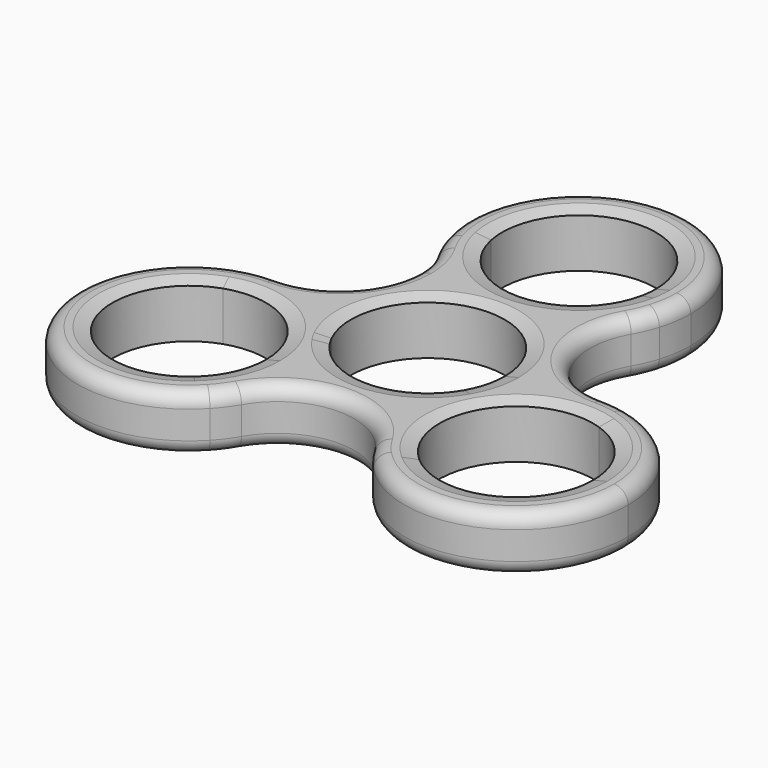
from build123d import *

# Parameters (mm, degrees)
F1_DEPTH   = 8
F2_R       = 2
F3_SIZE2   = 0.5
F3_SIZE    = 2
F4_SIZE2   = 2
F4_SIZE    = 0.5
F4_2_SIZE2 = 2
F4_2_SIZE  = 0.5
F4_3_SIZE2 = 2
F4_3_SIZE  = 0.5
F4_4_SIZE2 = 2
F4_4_SIZE  = 0.5


with BuildPart() as f1:
    # F0 (on Top) → F1 (new body)
    with BuildSketch(Plane.XY):
        with BuildLine():
            ThreePointArc((10.7700307631, 24.8015151753), (13.0865070646, 23.6611929217), (15.2836579454, 22.3051231209))
            ThreePointArc((15.2836579454, 22.3051231209), (15.8199008708, 24.6451264666), (16, 27.0390221279))
            ThreePointArc((16, 27.0390221279), (-2.3938956612, 42.8589229987), (-15.2836579454, 22.3051231209))
            ThreePointArc((-15.2836579454, 22.3051231209), (-13.0865070646, 23.6611929217), (-10.7700307631, 24.8015151753))
            ThreePointArc((-10.7700307631, 24.8015151753), (-1.1246469682, 37.9813787843), (11, 27.0390221279))
            ThreePointArc((11, 27.0390221279), (10.9423566564, 25.9143751596), (10.7700307631, 24.8015151753))
        make_face()
        with BuildLine():
            ThreePointArc((-13.8497502447, 19.0275042841), (0.013302609, 11.0390276578), (13.863052854, 19.0505450786))
            ThreePointArc((13.863052854, 19.0505450786), (14.6639270717, 20.6383000721), (15.2836579454, 22.3051231209))
            ThreePointArc((15.2836579454, 22.3051231209), (13.0865070646, 23.6611929217), (10.7700307631, 24.8015151753))
            ThreePointArc((10.7700307631, 24.8015151753), (0, 16.0390221279), (-10.7700307631, 24.8015151753))
            ThreePointArc((-10.7700307631, 24.8015151753), (-13.0865070646, 23.6611929217), (-15.2836579454, 22.3051231209))
            ThreePointArc((-15.2836579454, 22.3051231209), (-14.6586003596, 20.6261105038), (-13.8497502447, 19.0275042841))
        make_face()
        with BuildLine():
            ThreePointArc((26.9523801007, 2.1628510208), (27.0173529382, 1.0822928646), (27.0390221279, 0))
            ThreePointArc((27.0390221279, 0), (26.9972964631, -1.5015662873), (26.8722482479, -2.9984982464))
            ThreePointArc((26.8722482479, -2.9984982464), (32.3330446048, -7.0000511908), (34.4163501875, -13.4415231241))
            ThreePointArc((34.4163501875, -13.4415231241), (27.9427666707, -23.4670681876), (16.1415222201, -21.6923944747))
            ThreePointArc((16.1415222201, -21.6923944747), (13.9971892376, -23.1341179014), (11.7250292215, -24.364572793))
            ThreePointArc((11.7250292215, -24.364572793), (29.2874175753, -28.3254260977), (39.4163501875, -13.4415231241))
            ThreePointArc((39.4163501875, -13.4415231241), (35.9178796662, -3.4559454896), (26.9523801007, 2.1628510208))
        make_face()
        with BuildLine():
            ThreePointArc((26.8722482479, -2.9984982464), (26.9972964631, -1.5015662873), (27.0390221279, 0))
            ThreePointArc((27.0390221279, 0), (27.0173529382, 1.0822928646), (26.9523801007, 2.1628510208))
            ThreePointArc((26.9523801007, 2.1628510208), (25.1887865656, 2.4600009942), (23.4030475438, 2.5584713459))
            ThreePointArc((23.4030475438, 2.5584713459), (15.3932870587, 0.4015422168), (9.5399945116, -5.4761761037))
            ThreePointArc((9.5399945116, -5.4761761037), (7.4163723716, -13.4681668853), (9.5665997838, -21.4530406929))
            ThreePointArc((9.5665997838, -21.4530406929), (10.5631079323, -22.9701202679), (11.7250292215, -24.364572793))
            ThreePointArc((11.7250292215, -24.364572793), (13.9971892376, -23.1341179014), (16.1415222201, -21.6923944747))
            ThreePointArc((16.1415222201, -21.6923944747), (13.8763556667, -7.9653470365), (26.8722482479, -2.9984982464))
        make_face()
        with BuildLine():
            ThreePointArc((-7.3490054535, -13.4804046244), (-7.8057955833, -9.6845349044), (-9.1500838199, -6.1054046622))
            ThreePointArc((-9.1500838199, -6.1054046622), (-9.5263059345, -5.4999541128), (-9.8625243784, -4.8714076903))
            ThreePointArc((-9.8625243784, -4.8714076903), (-15.6653640378, 0.5538981582), (-23.3623080972, 2.5195898456))
            ThreePointArc((-23.3623080972, 2.5195898456), (-25.1712189323, 2.4154922687), (-26.9567613408, 2.1075425611))
            ThreePointArc((-26.9567613408, 2.1075425611), (-27.0348101605, -0.4772391579), (-26.8655813076, -3.0576557422))
            ThreePointArc((-26.8655813076, -3.0576557422), (-16.9334904467, -4.5450161495), (-12.3490054535, -13.4804046244))
            ThreePointArc((-12.3490054535, -13.4804046244), (-13.325334065, -18.0109688161), (-16.0810076162, -21.7372931084))
            ThreePointArc((-16.0810076162, -21.7372931084), (-13.9309295699, -23.1740785998), (-11.6534303278, -24.3988991396))
            ThreePointArc((-11.6534303278, -24.3988991396), (-10.485991798, -22.9958068597), (-9.4859523605, -21.4688812589))
            ThreePointArc((-9.4859523605, -21.4688812589), (-7.8924720535, -17.6150842076), (-7.3490054535, -13.4804046244))
        make_face()
        with BuildLine():
            ThreePointArc((-26.9567613408, 2.1075425611), (-37.2054504491, -21.4803378794), (-11.6534303278, -24.3988991396))
            ThreePointArc((-11.6534303278, -24.3988991396), (-13.9309295699, -23.1740785998), (-16.0810076162, -21.7372931084))
            ThreePointArc((-16.0810076162, -21.7372931084), (-32.875311388, -18.9803587372), (-26.8655813076, -3.0576557422))
            ThreePointArc((-26.8655813076, -3.0576557422), (-27.0348101605, -0.4772391579), (-26.9567613408, 2.1075425611))
        make_face()
        with BuildLine():
            ThreePointArc((-7.3490054535, -13.4804046244), (-7.8057955833, -9.6845349044), (-9.1500838199, -6.1054046622))
            ThreePointArc((-9.1500838199, -6.1054046622), (-9.5263059345, -5.4999541128), (-9.8625243784, -4.8714076903))
            ThreePointArc((-9.8625243784, -4.8714076903), (-15.6653640378, 0.5538981582), (-23.3623080972, 2.5195898456))
            ThreePointArc((-23.3623080972, 2.5195898456), (-25.1712189323, 2.4154922687), (-26.9567613408, 2.1075425611))
            ThreePointArc((-26.9567613408, 2.1075425611), (-27.0348101605, -0.4772391579), (-26.8655813076, -3.0576557422))
            ThreePointArc((-26.8655813076, -3.0576557422), (-16.9334904467, -4.5450161495), (-12.3490054535, -13.4804046244))
            ThreePointArc((-12.3490054535, -13.4804046244), (-13.325334065, -18.0109688161), (-16.0810076162, -21.7372931084))
            ThreePointArc((-16.0810076162, -21.7372931084), (-13.9309295699, -23.1740785998), (-11.6534303278, -24.3988991396))
            ThreePointArc((-11.6534303278, -24.3988991396), (-10.485991798, -22.9958068597), (-9.4859523605, -21.4688812589))
            ThreePointArc((-9.4859523605, -21.4688812589), (-7.8924720535, -17.6150842076), (-7.3490054535, -13.4804046244))
        make_face()
        with BuildLine():
            ThreePointArc((9.5665997838, -21.4530406929), (7.4163723716, -13.4681668853), (9.5399945116, -5.4761761037))
            ThreePointArc((9.5399945116, -5.4761761037), (0.370121239, -10.9937714306), (-9.1500838199, -6.1054046622))
            ThreePointArc((-9.1500838199, -6.1054046622), (-7.8057955833, -9.6845349044), (-7.3490054535, -13.4804046244))
            ThreePointArc((-7.3490054535, -13.4804046244), (-7.8924720535, -17.6150842076), (-9.4859523605, -21.4688812589))
            ThreePointArc((-9.4859523605, -21.4688812589), (0.0357509342, -15.9609630102), (9.5665997838, -21.4530406929))
        make_face()
        with BuildLine():
            ThreePointArc((9.5399945116, -5.4761761037), (15.3932870587, 0.4015422168), (23.4030475438, 2.5584713459))
            ThreePointArc((23.4030475438, 2.5584713459), (13.8721986641, 8.0505490014), (13.863052854, 19.0505450786))
            ThreePointArc((13.863052854, 19.0505450786), (0.013302609, 11.0390276578), (-13.8497502447, 19.0275042841))
            ThreePointArc((-13.8497502447, 19.0275042841), (-12.7474540279, 16.3710121791), (-12.3714536982, 13.5195860437))
            ThreePointArc((-12.3714536982, 13.5195860437), (-15.5900463187, 5.7446455812), (-23.3623080972, 2.5195898456))
            ThreePointArc((-23.3623080972, 2.5195898456), (-15.6653640378, 0.5538981582), (-9.8625243784, -4.8714076903))
            ThreePointArc((-9.8625243784, -4.8714076903), (-2.5012228846, 10.7118571724), (11, 0))
            ThreePointArc((11, 0), (10.6287332177, -2.8337307893), (9.5399945116, -5.4761761037))
        make_face()
        with BuildLine():
            ThreePointArc((9.5399945116, -5.4761761037), (15.3932870587, 0.4015422168), (23.4030475438, 2.5584713459))
            ThreePointArc((23.4030475438, 2.5584713459), (13.8721986641, 8.0505490014), (13.863052854, 19.0505450786))
            ThreePointArc((13.863052854, 19.0505450786), (0.013302609, 11.0390276578), (-13.8497502447, 19.0275042841))
            ThreePointArc((-13.8497502447, 19.0275042841), (-12.7474540279, 16.3710121791), (-12.3714536982, 13.5195860437))
            ThreePointArc((-12.3714536982, 13.5195860437), (-15.5900463187, 5.7446455812), (-23.3623080972, 2.5195898456))
            ThreePointArc((-23.3623080972, 2.5195898456), (-15.6653640378, 0.5538981582), (-9.8625243784, -4.8714076903))
            ThreePointArc((-9.8625243784, -4.8714076903), (-2.5012228846, 10.7118571724), (11, 0))
            ThreePointArc((11, 0), (10.6287332177, -2.8337307893), (9.5399945116, -5.4761761037))
        make_face()
    extrude(amount=F1_DEPTH)

    # F2
    f2_edges = [f1.edges().sort_by_distance(p)[0] for p in [
        (-13.840605, 8.027508, 0),
        (-37.198756, -21.491922, 8),
    ]]
    fillet(f2_edges, radius=F2_R)

    # F3
    f3_edges = [f1.edges().sort_by_distance(p)[0] for p in [
        (-9.539995, 5.476176, 0),
        (30.691178, -5.190652, 0),
        (-30.617003, -5.223516, 0),
        (-11, 27.039022, 0),
    ]]
    f3_side = f1.faces().sort_by_distance((-11.229032, 6.52261, 0))[0]
    chamfer(f3_edges, length=F3_SIZE, length2=F3_SIZE2, reference=f3_side)

    # F4
    f4_edges = [f1.edges().sort_by_distance(p)[0] for p in [
        (-11, 27.039022, 8),
    ]]
    f4_side = f1.faces().sort_by_distance((-11, 27.039022, 4.25))[0]
    chamfer(f4_edges, length=F4_SIZE, length2=F4_SIZE2, reference=f4_side)

    # F4#2
    f4_2_edges = [f1.edges().sort_by_distance(p)[0] for p in [
        (-9.539995, 5.476176, 8),
    ]]
    f4_2_side = f1.faces().sort_by_distance((-9.539995, 5.476176, 4.25))[0]
    chamfer(f4_2_edges, length=F4_2_SIZE, length2=F4_2_SIZE2, reference=f4_2_side)

    # F4#3
    f4_3_edges = [f1.edges().sort_by_distance(p)[0] for p in [
        (-30.617003, -5.223516, 8),
    ]]
    f4_3_side = f1.faces().sort_by_distance((-30.617003, -5.223516, 4.25))[0]
    chamfer(f4_3_edges, length=F4_3_SIZE, length2=F4_3_SIZE2, reference=f4_3_side)

    # F4#4
    f4_4_edges = [f1.edges().sort_by_distance(p)[0] for p in [
        (30.691178, -5.190652, 8),
    ]]
    f4_4_side = f1.faces().sort_by_distance((30.691178, -5.190652, 4.25))[0]
    chamfer(f4_4_edges, length=F4_4_SIZE, length2=F4_4_SIZE2, reference=f4_4_side)


solid = f1.part
